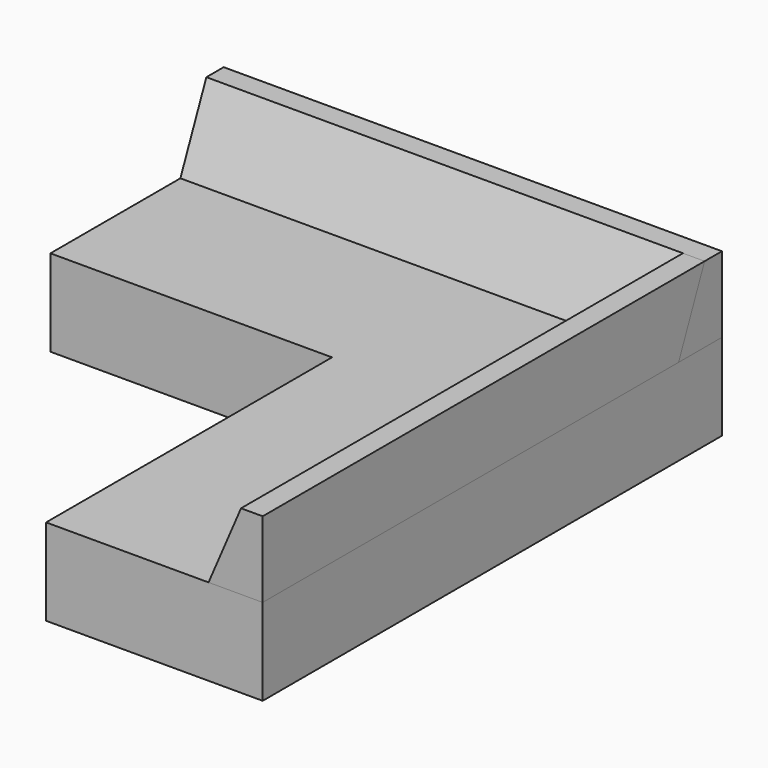
from build123d import *

# Parameters (mm, degrees)
F0_W     = 33.02
F0_H     = 25.4
F1_DEPTH = 10.16
F3_DEPTH = 67.31
F5_DEPTH = 58.42


with BuildPart() as f1:
    # F0 (on Top) → F1 (new body)
    with BuildSketch(Plane.XY):
        Polygon((0, 41.91), (0, 0), (25.4, 0), (25.4, 67.31), (0, 67.31), align=None)
        with Locations((-16.51, 54.61)):
            Rectangle(F0_W, F0_H)
    extrude(amount=F1_DEPTH)


with BuildPart() as f3:
    # F2 (on face) → F3 (new body)
    with BuildSketch(Plane.XZ):
        Polygon((19.05, 10.16), (25.4, 10.16), (25.4, 19.05), (22.86, 19.05), align=None)
    extrude(amount=-F3_DEPTH)


with BuildPart() as f5:
    # F4 (on face) → F5 (new body)
    with BuildSketch(Plane(origin=(-33.02, 0, 0), x_dir=(0, -1, 0), z_dir=(-1, 0, 0))):
        Polygon((-67.31, 19.05), (-67.31, 10.16), (-60.96, 10.16), (-64.77, 19.05), align=None)
    extrude(amount=-F5_DEPTH)


solid = Compound([f1.part, f3.part, f5.part])
